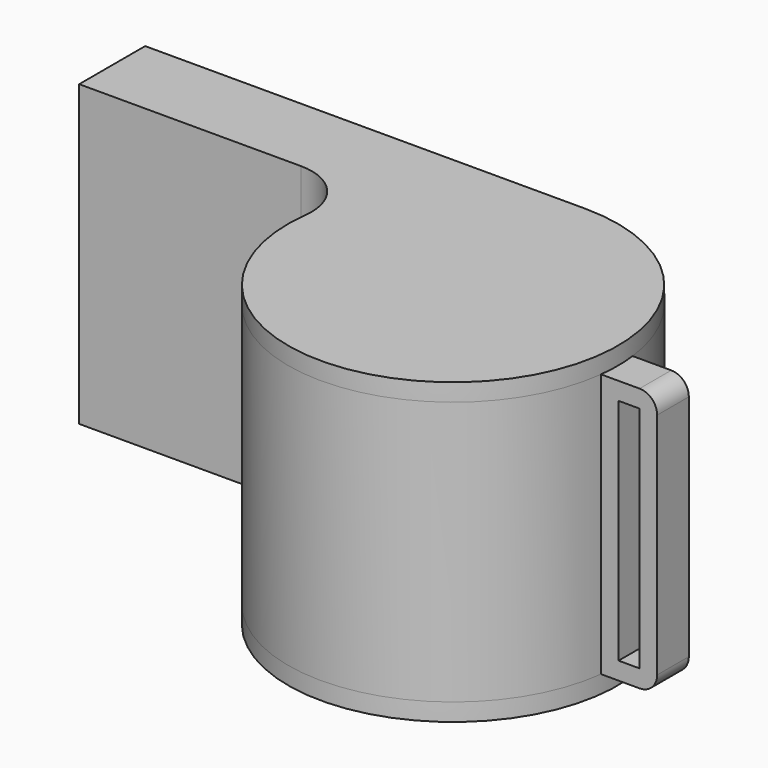
from build123d import *

# Parameters (mm, degrees)
F1_DEPTH = 1.016
F3_DEPTH = 15.24
F7_DEPTH = 1.016
F8_W     = 1.211829
F8_H     = 13.208
F9_DEPTH = 25.4


with BuildPart() as f1:
    # F0 (on Top) → F1 (new body)
    with BuildSketch(Plane.XY):
        with BuildLine():
            ThreePointArc((-12.600391, 4.7625), (-10.219141, 3.687565), (-9.450293, 1.190625))
            ThreePointArc((-9.450293, 1.190625), (6.300195, -7.14375), (0, 9.525))
            Line((0, 9.525), (-6.35, 9.525))
            Line((-6.35, 9.525), (-25.4, 9.525))
            Line((-25.4, 9.525), (-25.4, 7.65175))
            Line((-25.4, 7.65175), (-25.4, 6.63575))
            Line((-25.4, 6.63575), (-25.4, 4.7625))
            Line((-25.4, 4.7625), (-12.600391, 4.7625))
        make_face()
    extrude(amount=F1_DEPTH)

    # F2 (on face) → F3 (join)
    with BuildSketch(Plane.XY.offset(1.016)):
        with BuildLine():
            Line((-10.776599, 6.63575), (-25.4, 6.63575))
            Line((-25.4, 6.63575), (-25.4, 4.7625))
            Line((-25.4, 4.7625), (-12.600391, 4.7625))
            ThreePointArc((-12.600391, 4.7625), (-10.219141, 3.687565), (-9.450293, 1.190625))
            ThreePointArc((-9.450293, 1.190625), (-1.166816, -9.453262), (9.456171, -1.143))
            ThreePointArc((9.456171, -1.143), (9.525, 0), (9.456171, 1.143))
            ThreePointArc((9.456171, 1.143), (6.31817, 7.127857), (0, 9.525))
            Line((0, 9.525), (-3.175, 8.437357))
            Line((-3.175, 8.437357), (-0.198135, 8.506693))
            ThreePointArc((-0.198135, 8.506693), (-0.079436, 8.508629), (0.039278, 8.508909))
            ThreePointArc((0.039278, 8.508909), (3.461173, -7.773247), (-6.35, 5.663972))
            Line((-6.35, 5.663972), (-6.35, 7.34013))
            Line((-6.35, 7.34013), (-9.633965, 6.7394))
            ThreePointArc((-9.633965, 6.7394), (-10.202936, 6.661716), (-10.776599, 6.63575))
        make_face()
        with BuildLine():
            Line((-25.4, 9.525), (-25.4, 7.65175))
            Line((-25.4, 7.65175), (-10.868761, 7.65175))
            ThreePointArc((-10.868761, 7.65175), (-10.295099, 7.677716), (-9.726128, 7.7554))
            Line((-9.726128, 7.7554), (-6.35, 8.372989))
            Line((-6.35, 8.372989), (-6.35, 9.525))
            Line((-6.35, 9.525), (-25.4, 9.525))
        make_face()
        with BuildLine():
            Line((12.7, 1.143), (9.456171, 1.143))
            ThreePointArc((9.456171, 1.143), (9.525, 0), (9.456171, -1.143))
            Line((9.456171, -1.143), (12.7, -1.143))
            Line((12.7, -1.143), (12.7, 1.143))
        make_face()
    extrude(amount=F3_DEPTH)

    # F6 (on face) → F7 (join)
    with BuildSketch(Plane.XY.offset(16.256)):
        with BuildLine():
            Line((-6.35, 9.525), (-25.4, 9.525))
            Line((-25.4, 9.525), (-25.4, 4.7625))
            Line((-25.4, 4.7625), (-12.600391, 4.7625))
            ThreePointArc((-12.600391, 4.7625), (-10.219141, 3.687565), (-9.450293, 1.190625))
            ThreePointArc((-9.450293, 1.190625), (6.300195, -7.14375), (0, 9.525))
            Line((0, 9.525), (-6.35, 9.525))
        make_face()
    extrude(amount=F7_DEPTH)

    # F8 (on face) → F9 (cut)
    with BuildSketch(Plane(origin=(0, 1.143, 0), x_dir=(-1, 0, 0), z_dir=(0, 1, 0))):
        with BuildLine():
            ThreePointArc((-11.684, 1.016), (-12.40242, 1.31358), (-12.7, 2.032))
            Line((-12.7, 2.032), (-12.7, 1.016))
            Line((-12.7, 1.016), (-11.684, 1.016))
        make_face()
        with BuildLine():
            Line((-12.7, 16.256), (-12.7, 15.24))
            ThreePointArc((-12.7, 15.24), (-12.40242, 15.95842), (-11.684, 16.256))
            Line((-11.684, 16.256), (-12.7, 16.256))
        make_face()
        with Locations((-11.078086, 8.636)):
            Rectangle(F8_W, F8_H)
    extrude(amount=-F9_DEPTH, mode=Mode.SUBTRACT)


with BuildPart() as f5:
    # F4 (on Front) → F5 (revolve)
    with BuildSketch(Plane.XZ):
        with BuildLine():
            Line((-4.7625, 1.524), (-4.7625, 1.016))
            ThreePointArc((-4.7625, 1.016), (-2.38125, 3.39725), (-4.7625, 5.7785))
            Line((-4.7625, 5.7785), (-4.7625, 5.2705))
            Line((-4.7625, 5.2705), (-4.7625, 1.524))
        make_face()
    revolve(axis=Axis((-4.7625, 0, 5.122851), (0, 0, 1)))


solid = Compound([f1.part, f5.part])
